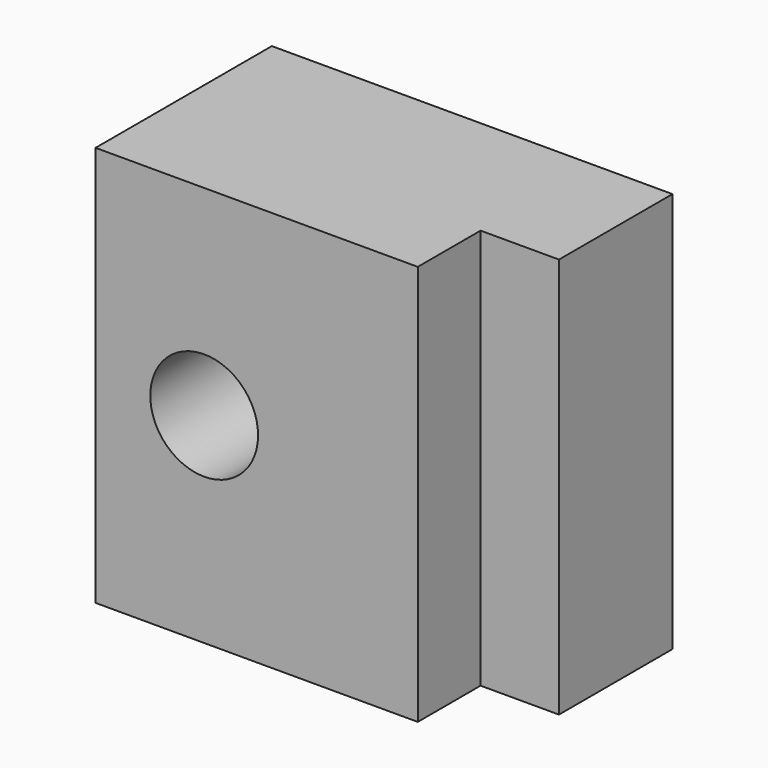
from build123d import *

# Parameters (mm, degrees)
F0_R      = 2.690874
F1_DEPTH  = 11
F2_W      = 4
F2_H      = 4
F1_FACE_W = 20
F1_FACE_H = 11
F3_DEPTH  = 25


with BuildPart() as f1:
    # F0 (on Front) → F1 (new body)
    with BuildSketch(Plane.XZ):
        Polygon((0, 10), (0, 0), (20, 0), (20, 20), (0, 20), align=None)
        with Locations((5.423373, 10)):
            Circle(F0_R, mode=Mode.SUBTRACT)
    extrude(amount=F1_DEPTH)

    # F2 (on Top) + F1_face (on face) → F3 (cut)
    with BuildSketch(Plane.XY):
        with Locations((18.086078, -9.081113)):
            Rectangle(F2_W, F2_H)
    with BuildSketch(Plane(origin=(10, -5.5, 20), x_dir=(1, 0, 0), z_dir=(0, 0, 1))):
        Rectangle(F1_FACE_W, F1_FACE_H)
    extrude(amount=F3_DEPTH, mode=Mode.SUBTRACT)


solid = f1.part
